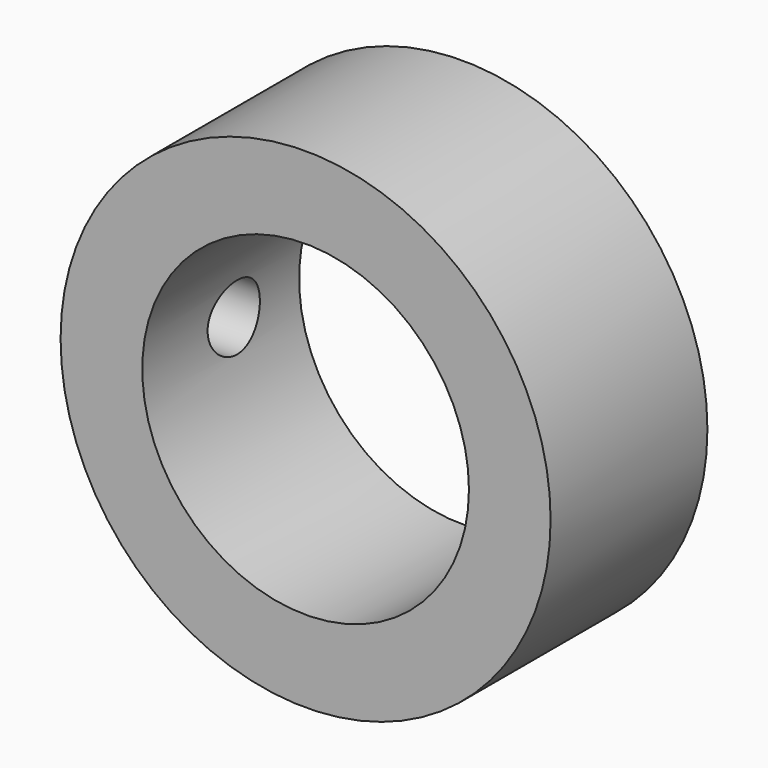
from build123d import *

# Parameters (mm, degrees)
F0_R     = 7.5
F0_R_2   = 5
F1_DEPTH = 6
F2_R     = 1
F3_DEPTH = 25


with BuildPart() as f1:
    # F0 (on Front) → F1 (new body)
    with BuildSketch(Plane.XZ):
        Circle(F0_R)
        Circle(F0_R_2, mode=Mode.SUBTRACT)
    extrude(amount=F1_DEPTH)

    # F2 (on Right) → F3 (cut)
    with BuildSketch(Plane.YZ):
        with Locations((-2.5, 0)):
            Circle(F2_R)
    extrude(amount=-F3_DEPTH, mode=Mode.SUBTRACT)


solid = f1.part
